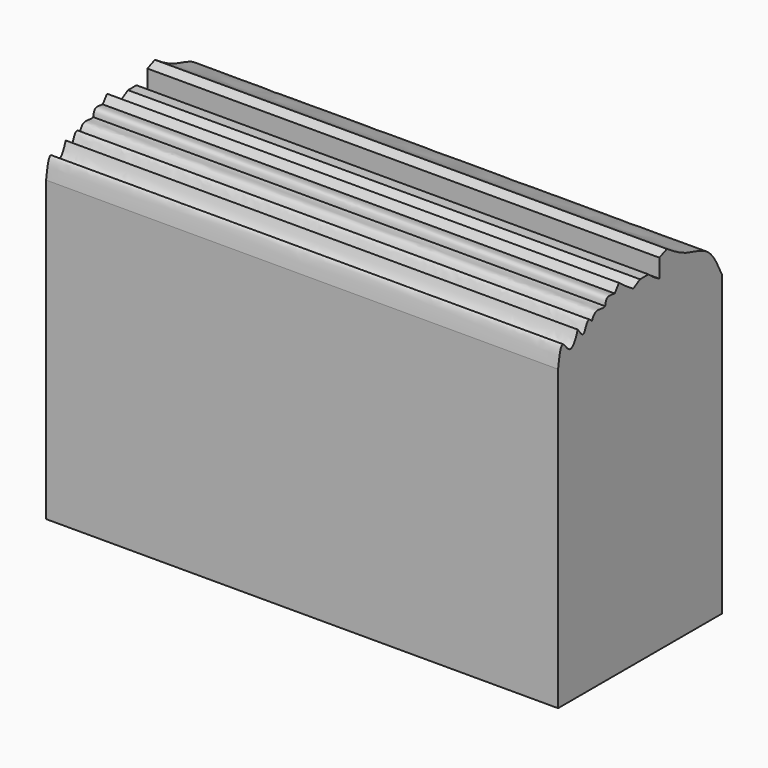
from build123d import *

# Parameters (mm, degrees)
F0_W     = 50.8
F0_H     = 74.0344213812
F1_DEPTH = 127


with BuildPart() as f1:
    # F0 (on Right) → F1 (new body)
    with BuildSketch(Plane.YZ):
        Rectangle(F0_W, F0_H)
        with BuildLine():
            add(Edge.make_bspline(
                [(-19.3013066672, 43.1850821753), (-21.4090093279, 37.0172106906), (-24.3494860832, 45.6546692341), (-25.1121798288, 38.8879577986), (-25.4, 37.0172106906)],
                knots=[0, 0, 0, 0, 0.4908734324, 1, 1, 1, 1], degree=3))
            Line((-25.4, 37.0172106906), (25.4, 37.0172106906))
            add(Edge.make_bspline(
                [(25.4, 37.0172106906), (24.1469761984, 39.6873465113), (21.7352660584, 44.826589891), (14.1168536342, 45.7798795442), (10.2612386056, 48.3056625144), (8.3399138743, 49.5643096612)],
                knots=[0, 0, 0, 0, 0.3517130955, 0.6769465126, 1, 1, 1, 1], degree=3))
            Line((8.3399138743, 49.5643096612), (6.0114039641, 48.5994553662))
            Line((6.0114039641, 48.5994553662), (6.0114039641, 44.0129793506))
            Line((6.0114039641, 44.0129793506), (4.1820400831, 45.0826937511))
            Line((4.1820400831, 45.0826937511), (2.6306878551, 46.3257443578))
            Line((2.6306878551, 46.3257443578), (0, 46.3257443578))
            Line((0, 46.3257443578), (-2.1122993728, 45.1120589437))
            Line((-2.1122993728, 45.1120589437), (-4.1638919483, 46.4675385911))
            Line((-4.1638919483, 46.4675385911), (-6.5098943509, 48.1936162641))
            Line((-6.5098943509, 48.1936162641), (-7.8279942041, 46.4021178449))
            add(Edge.make_bspline(
                [(-7.8279942041, 46.4021178449), (-8.7529842011, 46.5683367476), (-10.4630172673, 46.8756269086), (-10.6953405167, 45.4786521496), (-10.8019958113, 44.8373293562)],
                knots=[0, 0, 0, 0, 0.5409193814, 1, 1, 1, 1], degree=3))
            add(Edge.make_bspline(
                [(-10.8019958113, 44.8373293562), (-12.170026328, 44.2865802372), (-13.8384892691, 46.1113293065), (-14.9060873555, 43.1850821753)],
                knots=[0, 0, 0, 0, 4.4241935027, 4.4241935027, 4.4241935027, 4.4241935027], degree=3))
            add(Edge.make_bspline(
                [(-14.9060873555, 43.1850821753), (-16.3850719337, 45.2574046367), (-17.0769340129, 39.5307223475), (-18.6861609787, 42.4541546369), (-19.3013066672, 43.1850821753)],
                knots=[0, 0, 0, 0, 0.5187324743, 1, 1, 1, 1], degree=3))
        make_face()
    extrude(amount=F1_DEPTH)


solid = f1.part
